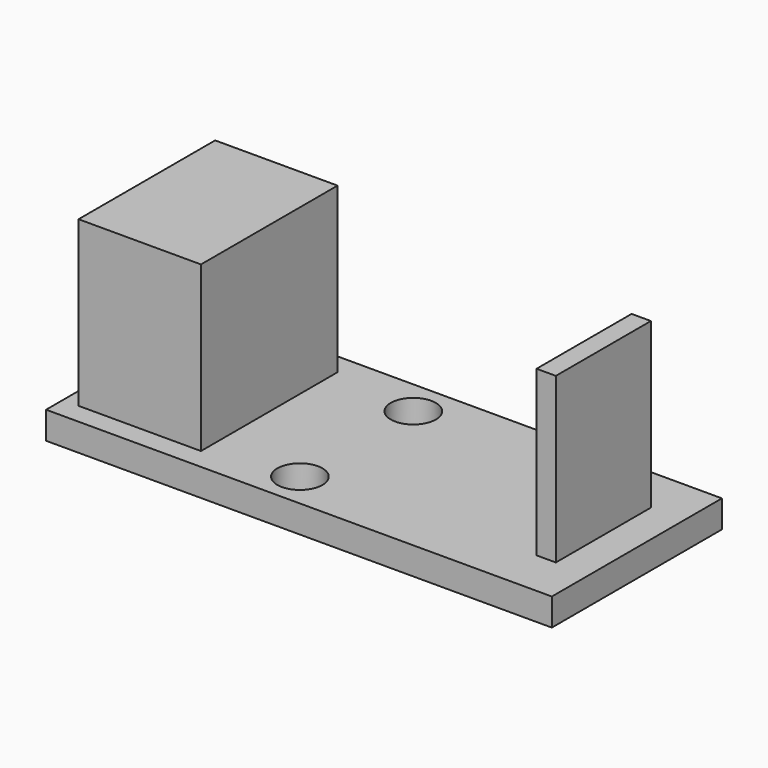
from build123d import *

# Parameters (mm, degrees)
F0_W     = 31.4
F0_H     = 13.2
F0_R     = 1.4
F1_DEPTH = 1.7
F2_W     = 7.6
F2_H     = 10.6
F2_W_2   = 1.198008
F2_H_2   = 7.37525
F3_DEPTH = 10.2


with BuildPart() as f1:
    # F0 (on Top) → F1 (new body)
    with BuildSketch(Plane.XY):
        Rectangle(F0_W, F0_H)
        with Locations((-1.7, -4.4)):
            Circle(F0_R, mode=Mode.SUBTRACT)
        with Locations((-1.7, 4.4)):
            Circle(F0_R, mode=Mode.SUBTRACT)
    extrude(amount=F1_DEPTH)

    # F2 (on face) → F3 (join)
    with BuildSketch(Plane.XY.offset(1.7)):
        with Locations((-10.924243, 0)):
            Rectangle(F2_W, F2_H)
        with Locations((13.020477, 0)):
            Rectangle(F2_W_2, F2_H_2)
    extrude(amount=F3_DEPTH)


solid = f1.part
